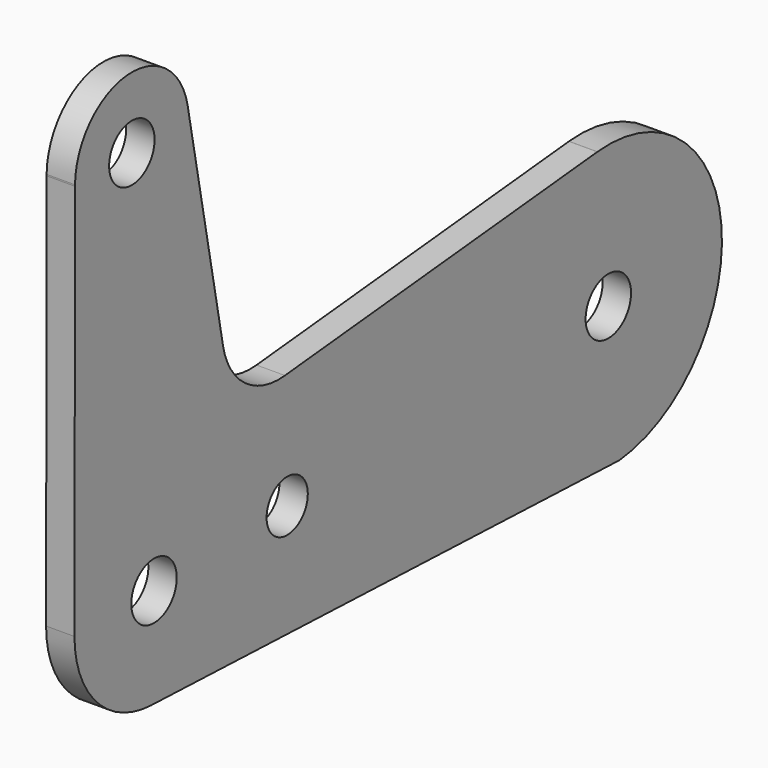
from build123d import *

# Parameters (mm, degrees)
F0_R     = 3.175
F0_R_2   = 2.878099
F1_DEPTH = 3.175
F3_ANGLE = 41


with BuildPart() as f1:
    # F0 (on Right) → F1 (new body)
    with BuildSketch(Plane.YZ):
        with BuildLine():
            Line((-0.683293, -22.206229), (-21.279692, -6.062372))
            ThreePointArc((-21.279692, -6.062372), (-31.89988, -6.809987), (-32.223099, -17.45155))
            Line((-32.223099, -17.45155), (-32.127586, -17.5618))
            Line((-32.127586, -17.5618), (-3.144408, -51.016742))
            ThreePointArc((-3.144408, -51.016742), (4.260096, -54.808331), (12.221904, -52.397431))
            Line((12.221904, -52.397431), (59.870195, -14.049133))
            Line((59.870195, -14.049133), (63.249417, -11.329467))
            ThreePointArc((63.249417, -11.329467), (62.611086, 11.0927), (40.187851, 10.493082))
            ThreePointArc((40.187851, 10.493082), (40.178419, 10.48314), (40.168995, 10.47319))
            Line((40.168995, 10.47319), (10.036033, -21.370629))
            ThreePointArc((10.036033, -21.370629), (4.839042, -23.875239), (-0.683293, -22.206229))
        make_face()
        with Locations((5.254567, -43.740418)):
            Circle(F0_R, mode=Mode.SUBTRACT)
        with Locations((18.772386, -30.935138)):
            Circle(F0_R_2, mode=Mode.SUBTRACT)
        with Locations((-26.176328, -12.30952)):
            Circle(F0_R, mode=Mode.SUBTRACT)
        with Locations((51.699796, -0.4381)):
            Circle(F0_R, mode=Mode.SUBTRACT)
    extrude(amount=F1_DEPTH)


with BuildPart() as f1_1:
    # F3: moved
    add(f1.part.rotate(Axis((-5.653633, 0, 21.454556), (-1, 0, 0)), F3_ANGLE))


solid = f1_1.part
